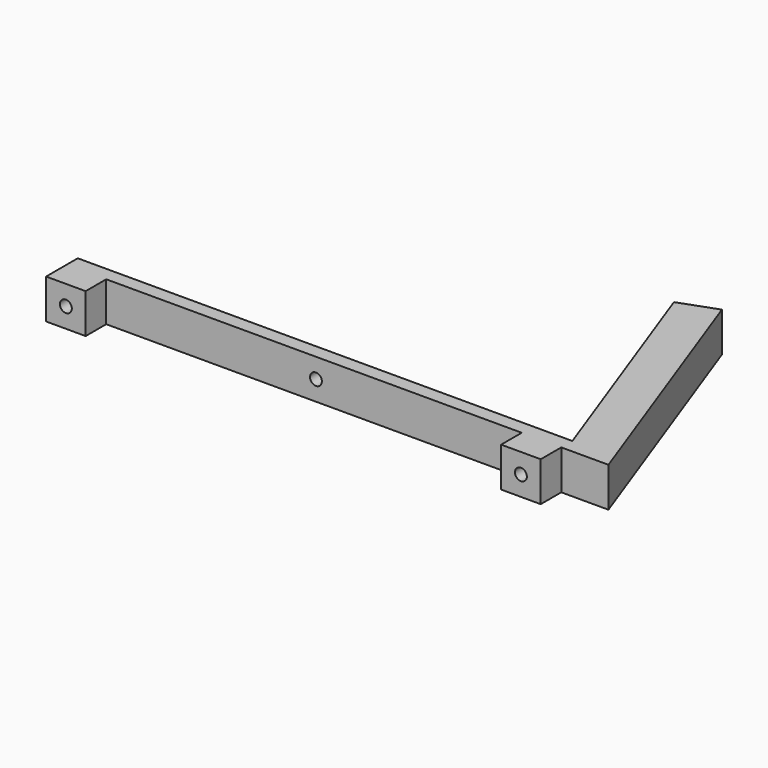
from build123d import *

# Parameters (mm, degrees)
PAD_DEPTH    = 10
SKETCH001_R  = 1.5
POCKET_DEPTH = 10.001


with BuildPart() as part:
    # Sketch → Pad (new body)
    with BuildSketch(Plane.XY):
        Polygon((0, 0), (0, 10), (125, 10), (103.577337, 68.858282), (112.974264, 72.278483), (136.915674, 6.5), (125, 6.5), (125, 0), (115, 0), (115, 6.5), (10, 6.5), (10, 0), align=None)
    extrude(amount=PAD_DEPTH)

    # Sketch001 (on Face2 of Pad) → Pocket (cut, through all)
    with BuildSketch(Plane(origin=(0, 10, 0), x_dir=(-1, 0, 0), z_dir=(0, 1, 0))):
        with Locations((-5, 5)):
            Circle(SKETCH001_R)
        with Locations((-120, 5)):
            Circle(SKETCH001_R)
        with Locations((-63, 5)):
            Circle(SKETCH001_R)
    extrude(amount=-POCKET_DEPTH, mode=Mode.SUBTRACT)


solid = part.part
